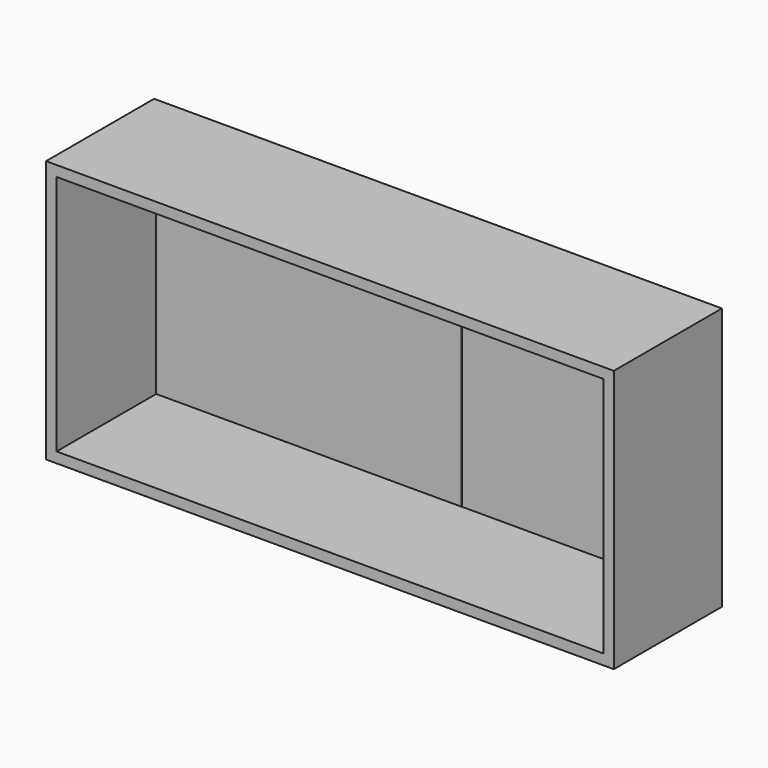
from build123d import *

# Parameters (mm, degrees)
F0_W     = 73.8667733967
F0_H     = 32.6388925314
F1_DEPTH = 63.5
F2_T     = -2.54


with BuildPart() as f1:
    # F0 (on Top) → F1 (new body)
    with BuildSketch(Plane.XY):
        Polygon((46.6460995376, -18.4034332633), (46.6460995376, -51.0423257947), (110.020622611, -51.0423257947), (110.020622611, -18.363982439), (46.6460995376, -18.363982439), align=None)
        with Locations((9.7127128392, -34.722879529)):
            Rectangle(F0_W, F0_H)
    extrude(amount=F1_DEPTH)

    # F2
    f2_openings = [f1.faces().sort_by_distance(p)[0] for p in [
        (41.399974, -51.042326, 31.75),
    ]]
    offset(amount=F2_T, openings=f2_openings, kind=Kind.INTERSECTION)


solid = f1.part
